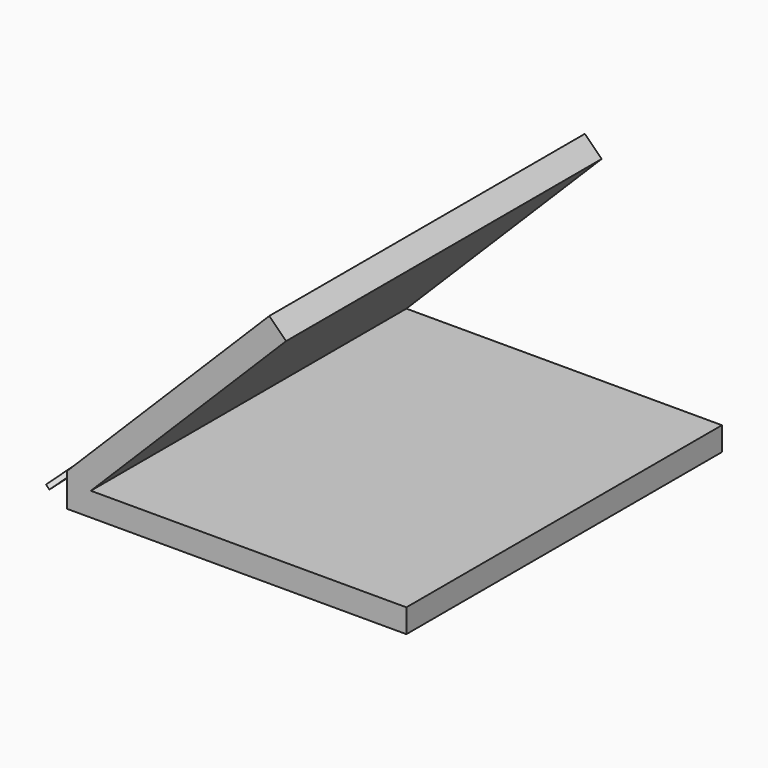
from build123d import *

# Parameters (mm, degrees)
F1_DEPTH = 50
F3_DEPTH = 0.6
F4_R     = 0.5
F5_DEPTH = 1


with BuildPart() as f1:
    # F0 (on Front) → F1 (new body)
    with BuildSketch(Plane.XZ):
        Polygon((45.7524405147, 0), (45.7524405147, 3), (5.7524405147, 3), (30.5011778563, 27.7487373415), (28.3798575127, 29.8700576851), (2.7524405147, 4.2426406871), (2.7524405147, 0), align=None)
    extrude(amount=F1_DEPTH)

    # F2 (on face) → F3 (join)
    with BuildSketch(Plane(origin=(-0.7451000862, 0, 0.7451000862), x_dir=(0, -1, 0), z_dir=(-0.7071067812, 0, 0.7071067812))):
        Polygon((28.6160509516, 19.0431820663), (26.9152817478, 20.0955052655), (17.1134265816, 32.7415969661), (10, 27.2280534351), (19.8018551662, 14.5819617345), (20.3959014762, 12.672221181), (21.9274413459, 10.6962693528), (31.8867334894, 4.9462693528), (39.542422512, 4.9462693528), align=None)
        with BuildLine():
            ThreePointArc((16.2533213032, 24.546920712), (16.4666390433, 26.230516727), (18.1502350583, 26.0171989869))
            Line((18.1502350583, 26.0171989869), (20.4781756603, 23.013752208))
            ThreePointArc((20.4781756603, 23.013752208), (20.6650927856, 22.6671048639), (20.7297187827, 22.2786130705))
            ThreePointArc((20.7297187827, 22.2786130705), (19.918210576, 21.1432390676), (18.5812619052, 21.5434739331))
            Line((18.5812619052, 21.5434739331), (16.2533213032, 24.546920712))
        make_face(mode=Mode.SUBTRACT)
        Polygon((45.74313995, -3.0537306472), (39.542422512, 4.9462693528), (31.8867334894, 4.9462693528), align=None)
    extrude(amount=F3_DEPTH)

    # F4
    f4_edges = [f1.edges().sort_by_distance(p)[0] for p in [
        (22.194573, -17.113427, 24.109037),
        (18.295909, -10, 20.210373),
    ]]
    fillet(f4_edges, radius=F4_R)

    # F2 (on face) → F5 (join, symmetric)
    with BuildSketch(Plane(origin=(-0.7451000862, 0, 0.7451000862), x_dir=(0, -1, 0), z_dir=(-0.7071067812, 0, 0.7071067812))):
        with BuildLine():
            ThreePointArc((18.1502350583, 26.0171989869), (18.3371521837, 25.6705516428), (18.4017781807, 25.2820598494))
            ThreePointArc((18.4017781807, 25.2820598494), (17.590269974, 24.1466858465), (16.2533213032, 24.546920712))
            Line((16.2533213032, 24.546920712), (18.5812619052, 21.5434739331))
            ThreePointArc((18.5812619052, 21.5434739331), (18.7945796452, 23.2270699481), (20.4781756603, 23.013752208))
            Line((20.4781756603, 23.013752208), (18.1502350583, 26.0171989869))
        make_face()
        with BuildLine():
            ThreePointArc((16.2533213032, 24.546920712), (17.590269974, 24.1466858465), (18.4017781807, 25.2820598494))
            ThreePointArc((18.4017781807, 25.2820598494), (18.3371521837, 25.6705516428), (18.1502350583, 26.0171989869))
            ThreePointArc((18.1502350583, 26.0171989869), (16.4666390433, 26.230516727), (16.2533213032, 24.546920712))
        make_face()
        with BuildLine():
            ThreePointArc((20.7297187827, 22.2786130705), (20.6650927856, 22.6671048639), (20.4781756603, 23.013752208))
            ThreePointArc((20.4781756603, 23.013752208), (18.7945796452, 23.2270699481), (18.5812619052, 21.5434739331))
            ThreePointArc((18.5812619052, 21.5434739331), (19.918210576, 21.1432390676), (20.7297187827, 22.2786130705))
        make_face()
    extrude(amount=F5_DEPTH, both=True)


solid = f1.part
